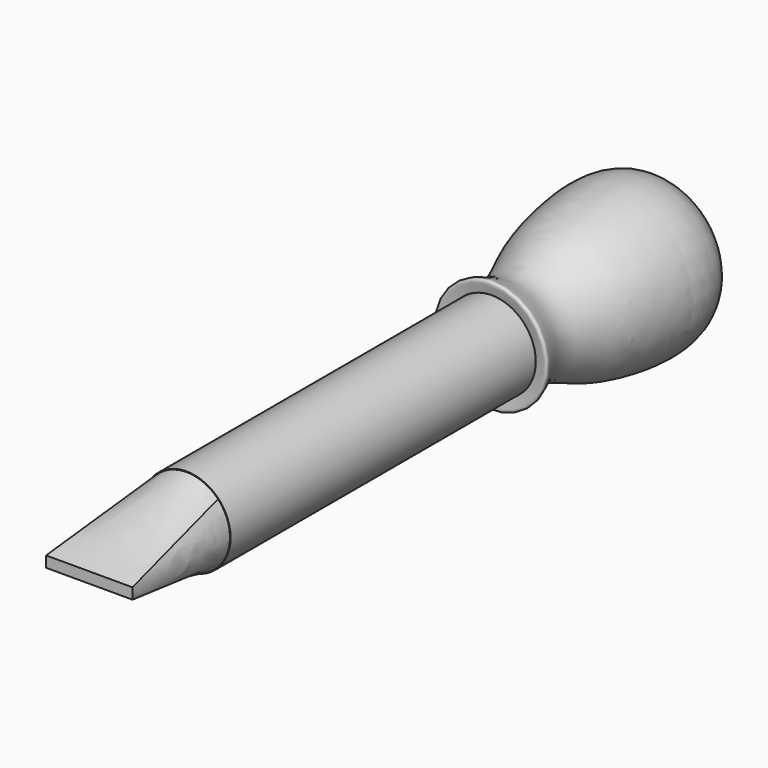
from build123d import *

# Parameters (mm, degrees)
F2_W     = 63.1503015757
F2_H     = 7.9845217988
F5_R     = 32.2206110424
F6_DEPTH = 279.4


with BuildPart() as f3:
    # F0 (on Front) → F3 section 0
    with BuildSketch(Plane.XZ):
        with BuildLine():
            ThreePointArc((23.0088164468, 21.8782281211), (0.6907278555, 31.7424856467), (-22.0353312907, 22.8584049074))
            ThreePointArc((-22.0353312907, 22.8584049074), (-31.6817312095, 2.0809631345), (-24.8359487489, -19.7797408917))
            ThreePointArc((-24.8359487489, -19.7797408917), (1.096665301, -31.7310545872), (26.1422818553, -18.0178688917))
            ThreePointArc((26.1422818553, -18.0178688917), (31.6525236796, 2.4860097971), (23.0088164468, 21.8782281211))
        make_face()
    # F2 (on offset) → F3 section 1
    with BuildSketch(Plane.XZ.offset(88.9)):
        Rectangle(F2_W, F2_H)
    loft()

    # F5 (on offset) → F6 (join)
    with BuildSketch(Plane.XZ):
        Circle(F5_R)
    extrude(amount=-F6_DEPTH)

    # F7 (on Right) → F8 (revolve)
    with BuildSketch(Plane.YZ):
        with BuildLine():
            add(Edge.make_bspline(
                [(278.835952282, 32.7780023217), (277.8359174772, 36.6024541602), (275.2821107075, 46.3690252322), (300.2033188051, 27.9764485938), (333.2199939586, 46.1555304856), (369.4104964708, 56.2417917829), (421.3321098132, 60.7266040333), (442.145049702, 33.9653899591), (443.34846302, 10.4804242711), (443.2389499023, 2.9934523278), (443.1951642036, 0)],
                knots=[0, 0, 0, 0, 0.0724523247, 0.1850227977, 0.3345498986, 0.4926059997, 0.6664305507, 0.8025875127, 0.9210702439, 1, 1, 1, 1], degree=3))
            Line((278.835952282, 32.7780023217), (278.835952282, 0))
            Line((278.835952282, 0), (443.1951642036, 0))
        make_face()
    revolve(axis=Axis((0, 361.0155582428, 0), (0, 1, 0)))


solid = f3.part
